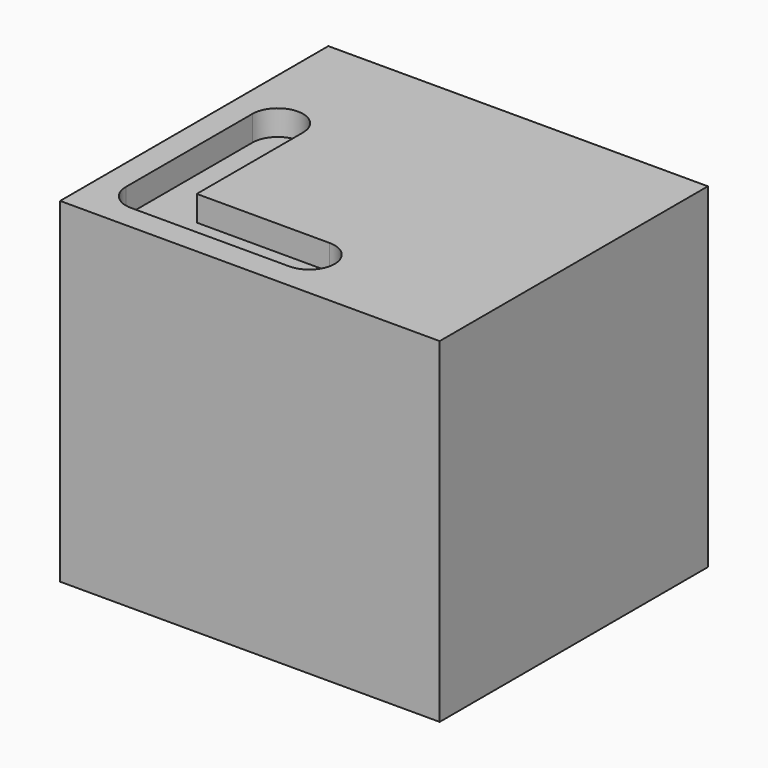
from build123d import *

# Parameters (mm, degrees)
F0_W     = 53
F0_H     = 53
F1_DEPTH = 60
F3_DEPTH = 4


with BuildPart() as f1:
    # F0 (on Right) → F1 (new body)
    with BuildSketch(Plane.YZ):
        with Locations((26.5, 26.5)):
            Rectangle(F0_W, F0_H)
    extrude(amount=F1_DEPTH)

    # F2 (on face) → F3 (cut)
    with BuildSketch(Plane.XY.offset(53)):
        with BuildLine():
            ThreePointArc((12, 33), (8, 37), (4, 33))
            Line((4, 33), (4, 8))
            ThreePointArc((4, 8), (5.171573, 5.171573), (8, 4))
            Line((8, 4), (33, 4))
            ThreePointArc((33, 4), (37, 8), (33, 12))
            Line((33, 12), (12, 12))
            Line((12, 12), (12, 33))
        make_face()
    extrude(amount=-F3_DEPTH, mode=Mode.SUBTRACT)


solid = f1.part
